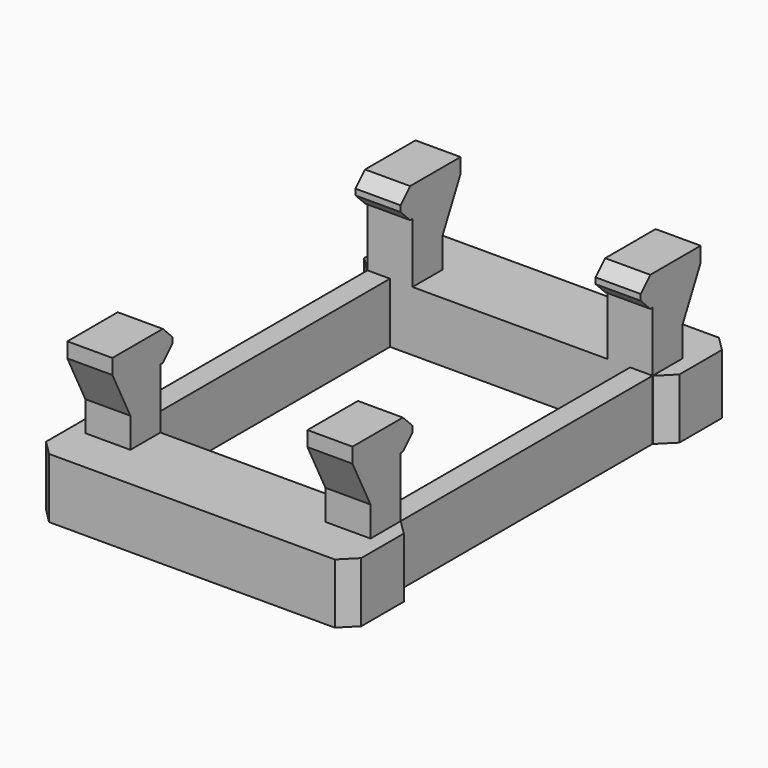
from build123d import *

# Parameters (mm, degrees)
SKETCH_W        = 10.5
SKETCH_H        = 14.5
PAD_DEPTH       = 2
SKETCH001_W     = 1.5
SKETCH001_H     = 2
PAD001_DEPTH    = 3
SKETCH002_W     = 10.5
SKETCH002_H     = 16
PAD002_DEPTH    = 2
SKETCH003_W     = 8
SKETCH003_H     = 10.5
SKETCH003_W_2   = 0.5
POCKET_DEPTH    = 2.001
CHAMFER_SIZE    = 0.49
SKETCH004_W     = 1.5
SKETCH004_H     = 2.5
PAD003_DEPTH    = 1
CHAMFER001_SIZE = 0.4
POCKET001_DEPTH = 10.001


with BuildPart() as part:
    # Sketch → Pad (new body)
    with BuildSketch(Plane.XY):
        Rectangle(SKETCH_W, SKETCH_H)
    extrude(amount=PAD_DEPTH)

    # Sketch001 (on Face6 of Pad) → Pad001 (join)
    with BuildSketch(Plane.XY.offset(2)):
        with Locations((-4, -6.25)):
            Rectangle(SKETCH001_W, SKETCH001_H)
        with Locations((4, -6.25)):
            Rectangle(SKETCH001_W, SKETCH001_H)
        with Locations((-4, 6.25)):
            Rectangle(SKETCH001_W, SKETCH001_H)
        with Locations((4, 6.25)):
            Rectangle(SKETCH001_W, SKETCH001_H)
    extrude(amount=PAD001_DEPTH)

    # Sketch002 (on Face4 of Pad001) → Pad002 (join)
    with BuildSketch(Plane(origin=(0, 0, 0), x_dir=(1, 0, 0), z_dir=(0, 0, -1))):
        Rectangle(SKETCH002_W, SKETCH002_H)
    extrude(amount=-PAD002_DEPTH)

    # Sketch003 (on Face5 of Pad002) → Pocket (cut, through all)
    with BuildSketch(Plane.XY.offset(2)):
        Rectangle(SKETCH003_W, SKETCH003_H)
        with Locations((-5, 0)):
            Rectangle(SKETCH003_W_2, SKETCH003_H)
        with Locations((5, 0)):
            Rectangle(SKETCH003_W_2, SKETCH003_H)
    extrude(amount=-POCKET_DEPTH, mode=Mode.SUBTRACT)

    # Chamfer
    chamfer_edges = [part.edges().sort_by_distance(p)[0] for p in [
        (-5.25, 5.25, 1),
        (-5.25, 8, 1),
        (-5.25, -5.25, 1),
        (-5.25, -8, 1),
        (5.25, -8, 1),
        (5.25, -5.25, 1),
        (5.25, 5.25, 1),
        (5.25, 8, 1),
    ]]
    chamfer(chamfer_edges, length=CHAMFER_SIZE)

    # Sketch004 (on Face37 of Chamfer) → Pad003 (join)
    with BuildSketch(Plane.XY.offset(5)):
        with Locations((-4, 6)):
            Rectangle(SKETCH004_W, SKETCH004_H)
        with Locations((-4, -6)):
            Rectangle(SKETCH004_W, SKETCH004_H)
        with Locations((4, -6)):
            Rectangle(SKETCH004_W, SKETCH004_H)
        with Locations((4, 6)):
            Rectangle(SKETCH004_W, SKETCH004_H)
    extrude(amount=-PAD003_DEPTH)

    # Chamfer001
    chamfer001_edges = [part.edges().sort_by_distance(p)[0] for p in [
        (-4, 4.75, 5),
        (-4, 4.75, 4),
        (4, 4.75, 5),
        (4, 4.75, 4),
        (-4, -4.75, 5),
        (-4, -4.75, 4),
        (4, -4.75, 5),
        (4, -4.75, 4),
    ]]
    chamfer(chamfer001_edges, length=CHAMFER001_SIZE)

    # Sketch005 (on Face47 of Chamfer001) → Pocket001 (cut, through all)
    with BuildSketch(Plane.YZ.offset(4.75)):
        Polygon((-7.25, 4.5), (-6.5, 3), (-6.5, 2), (-7.25, 2), align=None)
        Polygon((7.25, 4.5), (6.5, 3), (6.5, 2), (7.25, 2), align=None)
    extrude(amount=-POCKET001_DEPTH, mode=Mode.SUBTRACT)


solid = part.part
